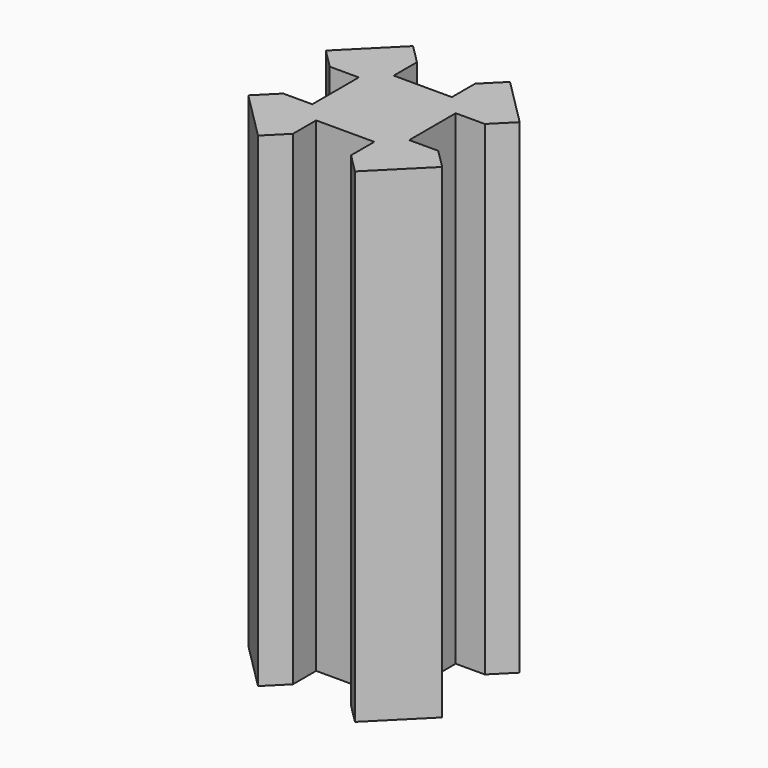
from build123d import *

# Parameters (mm, degrees)
F1_DEPTH = 50


with BuildPart() as f1:
    # F0 (on Top) → F1 (new body)
    with BuildSketch(Plane.XY):
        Polygon((-3, 8), (-5, 10), (-10, 5), (-8, 3), (-5, 3), (-5, 5), (-3, 5), align=None)
        Polygon((5, 5), (3, 5), (-3, 5), (-5, 5), (-5, 3), (-5, -3), (-5, -5), (-3, -5), (3, -5), (5, -5), (5, -3), (5, 3), align=None)
        Polygon((10, 5), (5, 10), (3, 8), (3, 5), (5, 5), (5, 3), (8, 3), align=None)
        Polygon((5, -10), (10, -5), (8, -3), (5, -3), (5, -5), (3, -5), (3, -8), align=None)
        Polygon((-8, -3), (-10, -5), (-5, -10), (-3, -8), (-3, -5), (-5, -5), (-5, -3), align=None)
    extrude(amount=F1_DEPTH)


solid = f1.part
